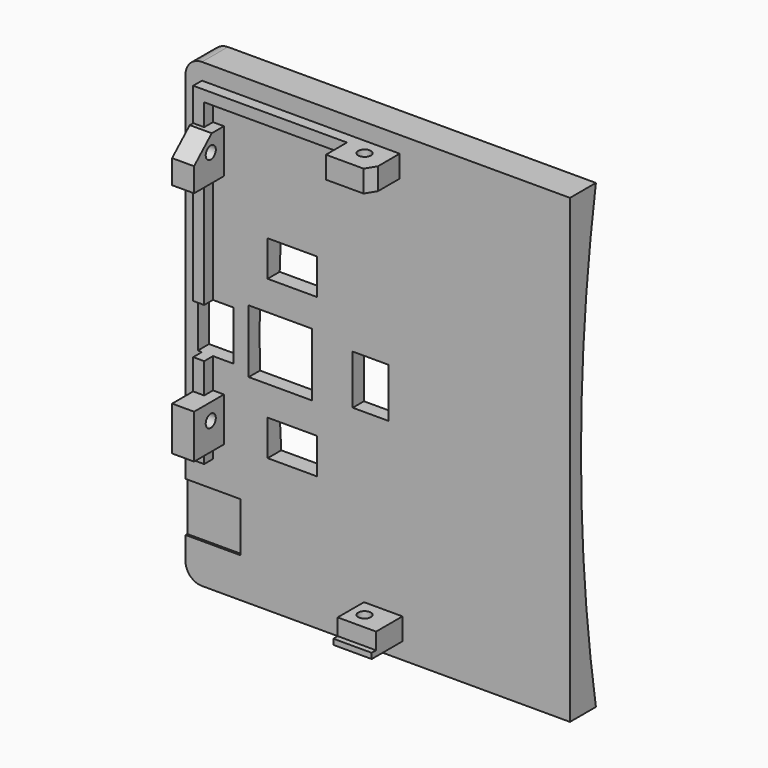
from build123d import *

# Parameters (mm, degrees)
SKETCH009_W             = 84
SKETCH009_H             = 70
PAD002_DEPTH            = 2
SKETCH010_W             = 2
SKETCH010_H             = 7
PAD003_DEPTH            = 2
SKETCH012_W             = 8
SKETCH012_H             = 6.8
PAD004_DEPTH            = 4
SKETCH013_W             = 7
SKETCH013_H             = 6
PAD005_DEPTH            = 4
SKETCH011_W             = 8
SKETCH011_H             = 6.8
PAD006_DEPTH            = 4
SKETCH014_R             = 1.15
POCKET002_DEPTH         = 81.001
SKETCH016_R             = 1.15
POCKET003_DEPTH         = 8.501
SKETCH018_W             = 11.5
SKETCH018_H             = 11.5
POCKET004_DEPTH         = 5
POCKET005_DEPTH         = 5
POCKET006_DEPTH         = 5
SKETCH021_W             = 1
SKETCH021_H             = 7
PAD007_DEPTH            = 1
SKETCH022_W             = 9
SKETCH022_H             = 10
POCKET007_DEPTH         = 0.4
FILLET_R                = 3
BODY002_PITCH_ANGLE     = -90
BODY002_PLACEMENT_ANGLE = 90
PAD001_DEPTH            = 35
SKETCH007_W             = 11.5
SKETCH007_H             = 11.5
POCKET001_DEPTH         = 13
FILLET001_R             = 3
SKETCH025_W             = 6.5
SKETCH025_H             = 9
SKETCH025_W_2           = 9
SKETCH025_H_2           = 6.5
POCKET008_DEPTH         = 8


with BuildPart() as back:
    # Sketch009 → Pad002 (new body)
    with BuildSketch(Plane.XY):
        Rectangle(SKETCH009_W, SKETCH009_H)
    extrude(amount=PAD002_DEPTH)

    # Sketch010 (on Face6 of Pad002) → Pad003 (join)
    with BuildSketch(Plane.XY.offset(2)):
        with Locations((-38, -1)):
            Rectangle(SKETCH010_W, SKETCH010_H)
        Polygon((-21, 32), (39, 32), (39, -4), (37, -4), (37, 30), (-21, 30), align=None)
    extrude(amount=PAD003_DEPTH)

    # Sketch012 (on Face15 of Pad003) → Pad004 (join)
    with BuildSketch(Plane.YZ.offset(39)):
        with Locations((0, 5.4)):
            Rectangle(SKETCH012_W, SKETCH012_H)
    extrude(amount=-PAD004_DEPTH)

    # Sketch013 (on Face9 of Pad004) → Pad005 (join)
    with BuildSketch(Plane(origin=(-39, 0, 0), x_dir=(0, -1, 0), z_dir=(-1, 0, 0))):
        with Locations((1, 5)):
            Rectangle(SKETCH013_W, SKETCH013_H)
    extrude(amount=-PAD005_DEPTH)

    # Sketch011 (on Face16 of Pad003) → Pad006 (join)
    with BuildSketch(Plane(origin=(0, 32, 0), x_dir=(-1, 0, 0), z_dir=(0, 1, 0))):
        with Locations((-29, 5.4)):
            Rectangle(SKETCH011_W, SKETCH011_H)
        with Locations((14, 5.4)):
            Rectangle(SKETCH011_W, SKETCH011_H)
    extrude(amount=-PAD006_DEPTH)

    # Sketch014 (on Face44 of Pad006) → Pocket002 (cut, through all)
    with BuildSketch(Plane.YZ.offset(39)):
        with Locations((0, 5)):
            Circle(SKETCH014_R)
    extrude(amount=-POCKET002_DEPTH, mode=Mode.SUBTRACT)

    # Sketch016 → Pocket003 (cut, through all)
    with BuildSketch(Plane.XZ.offset(-26.5)):
        with Locations((-13, 5)):
            Circle(SKETCH016_R)
        with Locations((30, 5)):
            Circle(SKETCH016_R)
    extrude(amount=-POCKET003_DEPTH, mode=Mode.SUBTRACT)

    # Sketch018 (on Face5 of Pocket003) → Pocket004 (cut)
    with BuildSketch(Plane.XY.offset(2)):
        with Locations((0, 17.75)):
            Rectangle(SKETCH018_W, SKETCH018_H)
    extrude(amount=-POCKET004_DEPTH, mode=Mode.SUBTRACT)

    # Sketch019 (on Face31 of Pocket004) → Pocket005 (cut)
    with BuildSketch(Plane.XZ.offset(-28)):
        Polygon((29.125944, 9.042901), (33.258869, 4.499726), (33.258869, 9.042901), align=None)
    extrude(amount=-POCKET005_DEPTH, mode=Mode.SUBTRACT)

    # Sketch020 (on Face36 of Pocket005) → Pocket006 (cut)
    with BuildSketch(Plane(origin=(35, 0, 0), x_dir=(0, -1, 0), z_dir=(-1, 0, 0))):
        Polygon((2.77547, 8.938441), (6.386171, 3.079567), (6.386171, 8.938441), align=None)
    extrude(amount=-POCKET006_DEPTH, mode=Mode.SUBTRACT)

    # Sketch021 (on Face40 of Pocket006) → Pad007 (join)
    with BuildSketch(Plane.XY.offset(8)):
        with Locations((-38.5, -1)):
            Rectangle(SKETCH021_W, SKETCH021_H)
    extrude(amount=PAD007_DEPTH)

    # Sketch022 (on Face5 of Pocket005) → Pocket007 (cut)
    with BuildSketch(Plane.XY.offset(2)):
        with Locations((-30.3, 30)):
            Rectangle(SKETCH022_W, SKETCH022_H)
    extrude(amount=-POCKET007_DEPTH, mode=Mode.SUBTRACT)

    # Fillet
    fillet_edges = [back.edges().sort_by_distance(p)[0] for p in [
        (42, 35, 1),
        (-42, 35, 1),
    ]]
    fillet(fillet_edges, radius=FILLET_R)


with BuildPart() as back_1:
    # Body002 pitch: moved
    add(back.part.rotate(Axis((0, 0, 0), (0, 1, 0)), BODY002_PITCH_ANGLE))


with BuildPart() as back_2:
    # Body002 placement: moved
    add(back_1.part.rotate(Axis((0, 0, 0), (0, 0, 1)), BODY002_PLACEMENT_ANGLE))


with BuildPart() as curve:
    # Sketch006 → Pad001 (new body, symmetric)
    with BuildSketch(Plane(origin=(0, 0, 0), x_dir=(0, 0, -1), z_dir=(1, 0, 0))):
        with BuildLine():
            ThreePointArc((-42, 3.9), (0, 0.511678), (42, 3.9))
            Line((42, -0.1), (42, 3.9))
            Line((-42, -0.1), (42, -0.1))
            Line((-42, 3.9), (-42, -0.1))
        make_face()
    extrude(amount=PAD001_DEPTH, both=True)

    # Sketch007 (on Face3 of Pad001) → Pocket001 (cut)
    with BuildSketch(Plane.XZ.offset(0.1)):
        with Locations((-17.75, 0)):
            Rectangle(SKETCH007_W, SKETCH007_H)
    extrude(amount=-POCKET001_DEPTH, mode=Mode.SUBTRACT)

    # Fillet001
    fillet001_edges = [curve.edges().sort_by_distance(p)[0] for p in [
        (-35, 1.9, -42),
        (-35, 1.9, 42),
    ]]
    fillet(fillet001_edges, radius=FILLET001_R)

    # Boolean: union Back
    add(back_2.part)

    # Sketch025 (on Face32 of Boolean) → Pocket008 (cut, symmetric)
    with BuildSketch(Plane.XZ.offset(2)):
        with Locations((-29.5, 0)):
            Rectangle(SKETCH025_W, SKETCH025_H)
        with Locations((-15.55, 14.375)):
            Rectangle(SKETCH025_W_2, SKETCH025_H_2)
        with Locations((-1.3, 0)):
            Rectangle(SKETCH025_W, SKETCH025_H)
        with Locations((-15.55, -14.375)):
            Rectangle(SKETCH025_W_2, SKETCH025_H_2)
    extrude(amount=POCKET008_DEPTH, both=True, mode=Mode.SUBTRACT)


solid = curve.part
